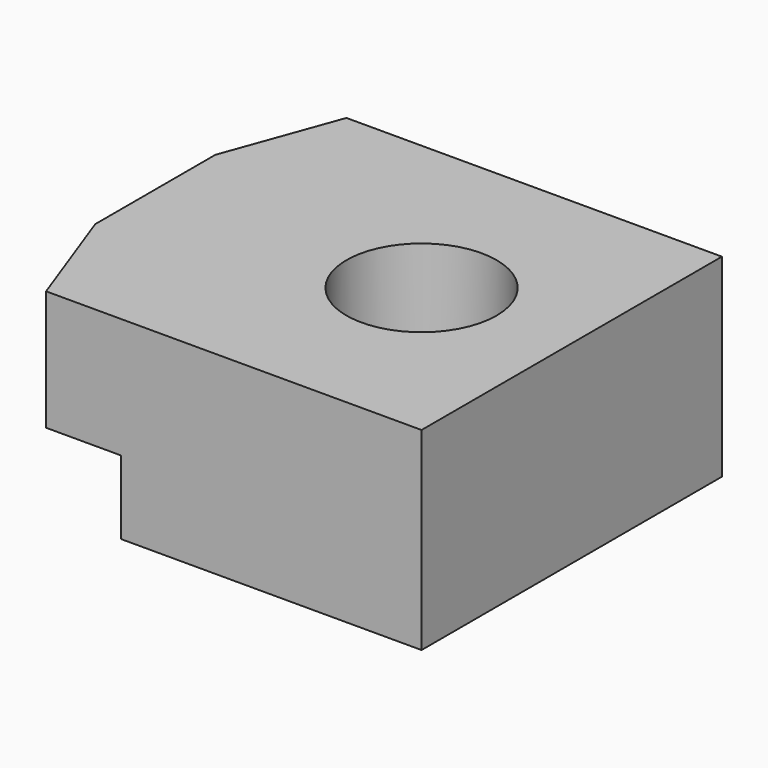
from build123d import *

# Parameters (mm, degrees)
F0_R     = 5
F1_DEPTH = 8
F2_W     = 20
F2_H     = 25
F2_R     = 5
F3_DEPTH = 4.9


with BuildPart() as f1:
    # F0 (on Top) → F1 (new body)
    with BuildSketch(Plane.XY):
        Polygon((-5, -12.5), (20, -12.5), (20, 12.5), (-5, 12.5), (-7.729777, 5), (-7.729777, -5), align=None)
        with Locations((10, 0)):
            Circle(F0_R, mode=Mode.SUBTRACT)
    extrude(amount=F1_DEPTH)

    # F2 (on Top) → F3 (join)
    with BuildSketch(Plane.XY):
        with Locations((10, 0)):
            Rectangle(F2_W, F2_H)
        with Locations((10, 0)):
            Circle(F2_R, mode=Mode.SUBTRACT)
    extrude(amount=-F3_DEPTH)


solid = f1.part
